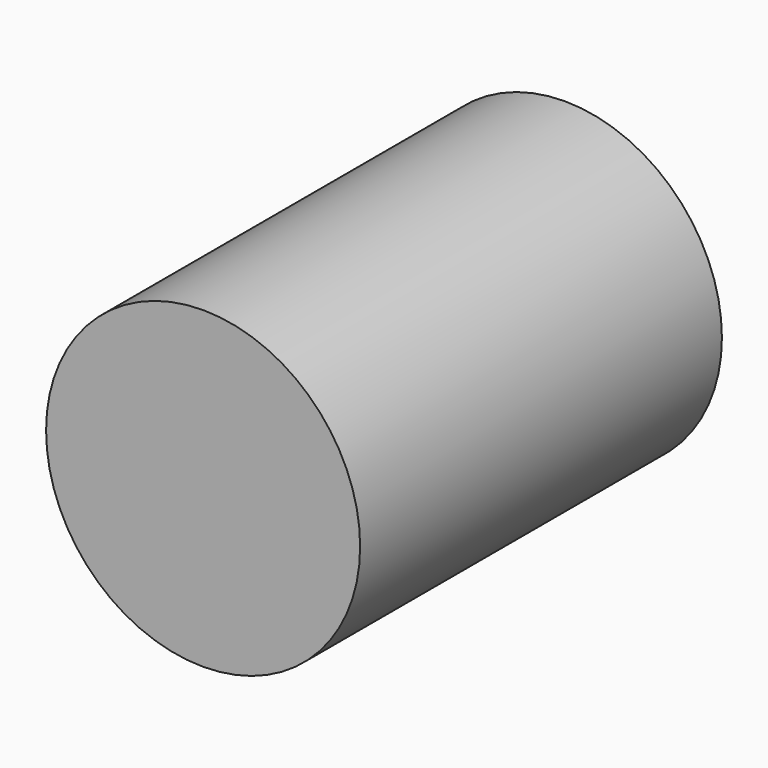
from build123d import *

# Parameters (mm, degrees)
SKETCH_R  = 12.5
PAD_DEPTH = 36


with BuildPart() as part:
    # Sketch → Pad (new body)
    with BuildSketch(Plane.XZ):
        Circle(SKETCH_R)
    extrude(amount=PAD_DEPTH)


solid = part.part
